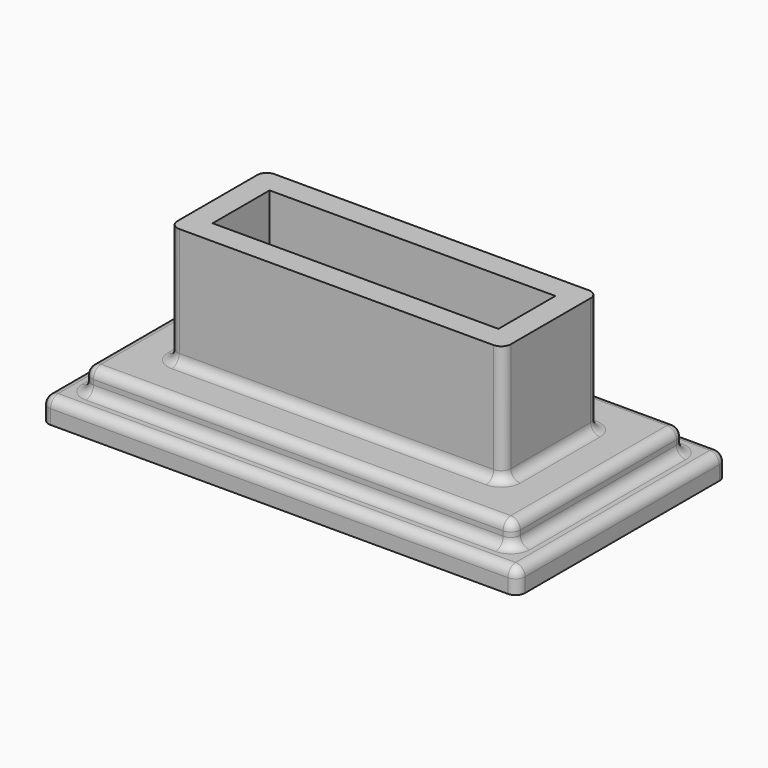
from build123d import *

# Parameters (mm, degrees)
F0_W     = 100
F0_H     = 54.953308776
F1_DEPTH = 5
F2_W     = 90
F2_H     = 44.953308776
F3_DEPTH = 5
F4_W     = 70
F4_H     = 24.953308776
F5_DEPTH = 25
F6_R     = 2
F7_W     = 60
F7_H     = 14.953308776
F8_DEPTH = 25


with BuildPart() as f1:
    # F0 (on Top) → F1 (new body)
    with BuildSketch(Plane.XY):
        with Locations((10.9343037009, -2.2429926321)):
            Rectangle(F0_W, F0_H)
    extrude(amount=F1_DEPTH)

    # F2 (on face) → F3 (join)
    with BuildSketch(Plane.XY.offset(5)):
        with Locations((10.9343037009, -2.2429926321)):
            Rectangle(F2_W, F2_H)
    extrude(amount=F3_DEPTH)

    # F4 (on face) → F5 (join)
    with BuildSketch(Plane.XY.offset(10)):
        with Locations((10.9343037009, -2.2429926321)):
            Rectangle(F4_W, F4_H)
    extrude(amount=F5_DEPTH)

    # F6
    f6_edges = [f1.edges().sort_by_distance(p)[0] for p in [
        (60.934304, 25.233662, 2.5),
        (-39.065696, 25.233662, 2.5),
        (-39.065696, -29.719647, 2.5),
        (60.934304, -29.719647, 2.5),
        (45.934304, -14.719647, 22.5),
        (45.934304, 10.233662, 22.5),
        (55.934304, 20.233662, 7.5),
        (55.934304, -24.719647, 7.5),
        (-24.065696, -14.719647, 22.5),
        (-24.065696, 10.233662, 22.5),
        (-34.065696, -24.719647, 7.5),
        (-34.065696, 20.233662, 7.5),
        (10.934304, -24.719647, 5),
        (10.934304, -14.719647, 10),
        (10.934304, -24.719647, 10),
        (10.934304, -29.719647, 5),
        (60.934304, -2.242993, 5),
        (10.934304, 25.233662, 5),
        (-39.065696, -2.242993, 5),
        (55.934304, -2.242993, 5),
        (10.934304, 20.233662, 5),
        (-34.065696, -2.242993, 5),
        (45.934304, -2.242993, 10),
        (-34.065696, -2.242993, 10),
        (55.934304, -2.242993, 10),
        (10.934304, 20.233662, 10),
        (10.934304, 10.233662, 10),
        (-24.065696, -2.242993, 10),
    ]]
    fillet(f6_edges, radius=F6_R)

    # F7 (on face) → F8 (cut)
    with BuildSketch(Plane.XY.offset(35)):
        with Locations((10.9343037009, -2.2429926321)):
            Rectangle(F7_W, F7_H)
    extrude(amount=-F8_DEPTH, mode=Mode.SUBTRACT)


solid = f1.part
